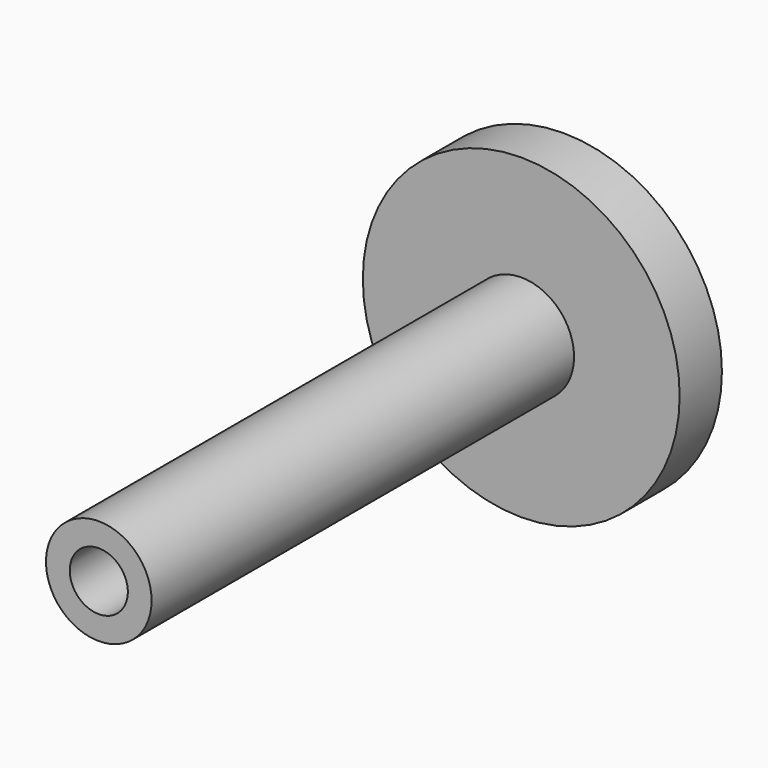
from build123d import *

# Parameters (mm, degrees)
F0_R     = 15
F1_DEPTH = 5
F2_R     = 5
F3_DEPTH = 50
F5_D     = 5.5


with BuildPart() as f1:
    # F0 (on Front) → F1 (new body)
    with BuildSketch(Plane.XZ):
        Circle(F0_R)
    extrude(amount=F1_DEPTH)

    # F2 (on face) → F3 (join)
    with BuildSketch(Plane.XZ.offset(5)):
        Circle(F2_R)
    extrude(amount=F3_DEPTH)

    # F5 (through all)
    with Locations(Plane.XZ.offset(55)):
        with Locations((0, 0)):
            Hole(F5_D / 2)


solid = f1.part
